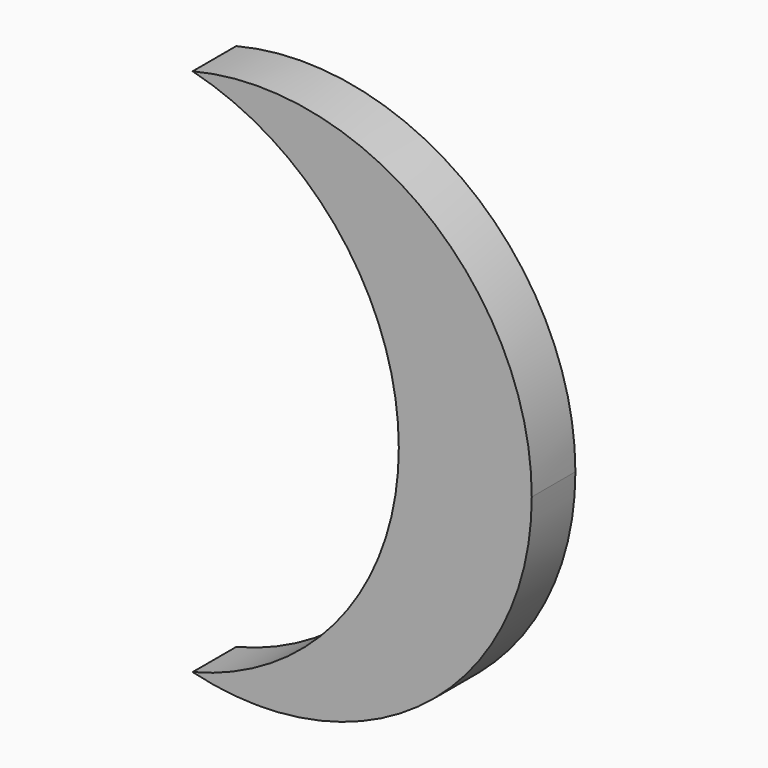
from build123d import *

# Parameters (mm, degrees)
F1_DEPTH = 7.62


with BuildPart() as f1:
    # F0 (on Front) → F1 (new body)
    with BuildSketch(Plane.XZ):
        with BuildLine():
            ThreePointArc((-9.288866, -36.950331), (23.427593, -30.04593), (38.1, 0))
            ThreePointArc((38.1, 0), (23.427593, 30.04593), (-9.288866, 36.950331))
            ThreePointArc((-9.288866, 36.950331), (11.468197, 23.427593), (19.522267, 0))
            ThreePointArc((19.522267, 0), (11.468197, -23.427593), (-9.288866, -36.950331))
        make_face()
    extrude(amount=F1_DEPTH)


solid = f1.part
